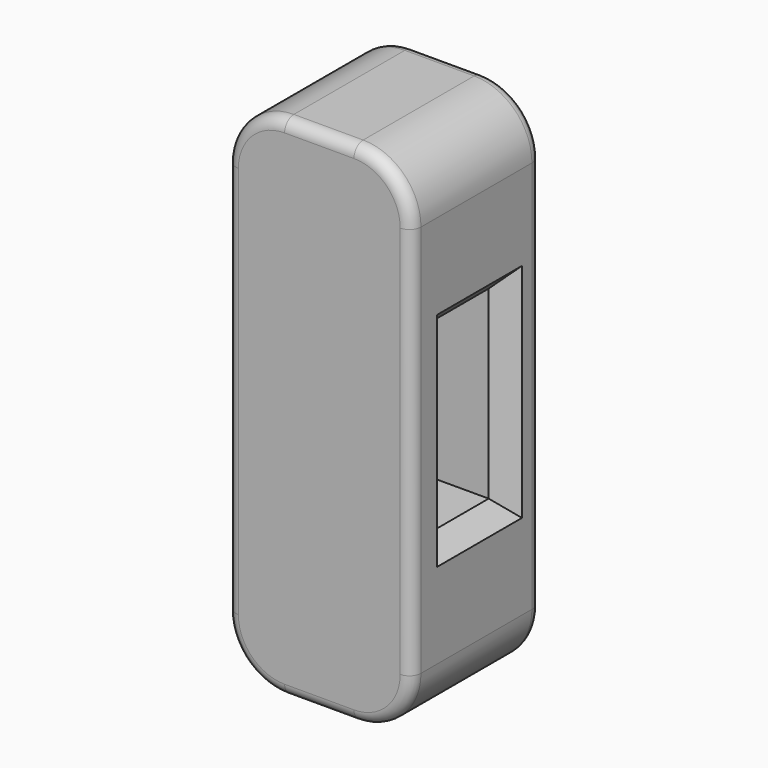
from build123d import *

# Parameters (mm, degrees)
F1_DEPTH = 44.45
F2_R     = 3.175
F3_W     = 19.05
F3_H     = 50.8
F4_DEPTH = 127
F5_SIZE  = 5.08


with BuildPart() as f1:
    # F0 (on Front) → F1 (new body)
    with BuildSketch(Plane.XZ):
        with BuildLine():
            ThreePointArc((25.4, 53.975), (20.75032, 65.20032), (9.525, 69.85))
            Line((9.525, 69.85), (-9.525, 69.85))
            ThreePointArc((-9.525, 69.85), (-20.75032, 65.20032), (-25.4, 53.975))
            Line((-25.4, 53.975), (-25.4, -53.975))
            ThreePointArc((-25.4, -53.975), (-20.75032, -65.20032), (-9.525, -69.85))
            Line((-9.525, -69.85), (9.525, -69.85))
            ThreePointArc((9.525, -69.85), (20.75032, -65.20032), (25.4, -53.975))
            Line((25.4, -53.975), (25.4, 53.975))
        make_face()
    extrude(amount=F1_DEPTH)

    # F2
    f2_edges = [f1.edges().sort_by_distance(p)[0] for p in [
        (9.525, -22.225, 69.85),
        (-9.525, -22.225, 69.85),
        (0, 0, 69.85),
        (0, -44.45, 69.85),
        (-9.525, -22.225, -69.85),
        (9.525, -22.225, -69.85),
        (0, 0, -69.85),
        (0, -44.45, -69.85),
        (25.4, -22.225, -53.975),
        (20.75032, 0, -65.20032),
        (20.75032, -44.45, -65.20032),
        (-20.75032, 0, -65.20032),
        (-25.4, -22.225, -53.975),
        (-20.75032, -44.45, -65.20032),
        (-25.4, -22.225, 53.975),
        (-20.75032, 0, 65.20032),
        (-20.75032, -44.45, 65.20032),
        (25.4, -22.225, 53.975),
        (20.75032, 0, 65.20032),
        (20.75032, -44.45, 65.20032),
    ]]
    fillet(f2_edges, radius=F2_R)

    # F3 (on face) → F4 (cut)
    with BuildSketch(Plane.YZ.offset(25.4)):
        with Locations((-21.200806, 0)):
            Rectangle(F3_W, F3_H)
    extrude(amount=-F4_DEPTH, mode=Mode.SUBTRACT)

    # F5
    f5_edges = [f1.edges().sort_by_distance(p)[0] for p in [
        (25.4, -11.675806, 0),
        (25.4, -21.200806, 25.4),
        (25.4, -30.725806, 0),
        (25.4, -21.200806, -25.4),
        (-25.4, -21.200806, -25.4),
        (-25.4, -11.675806, 0),
        (-25.4, -21.200806, 25.4),
        (-25.4, -30.725806, 0),
    ]]
    chamfer(f5_edges, length=F5_SIZE)


solid = f1.part
